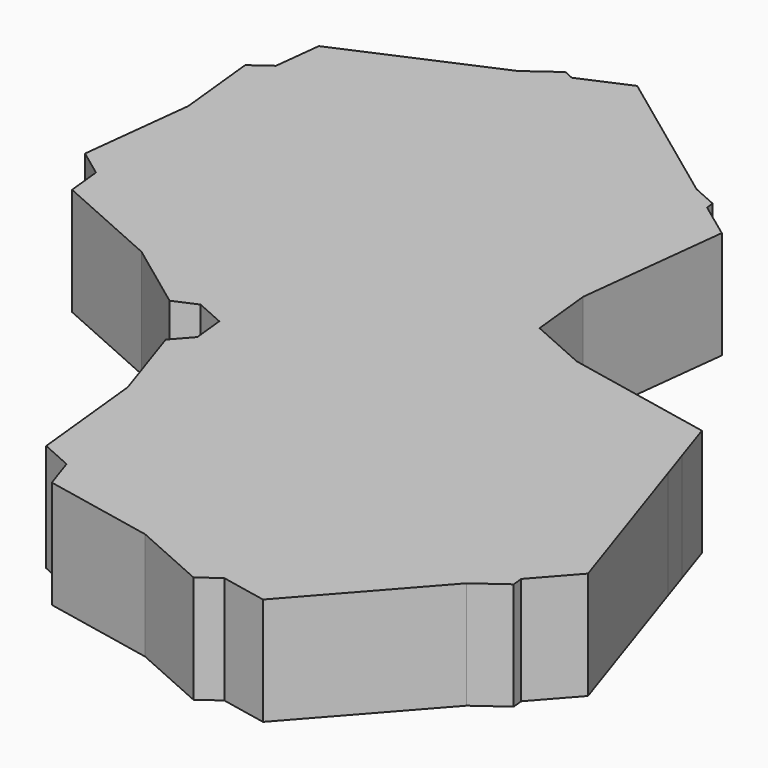
from build123d import *

# Parameters (mm, degrees)
F1_DEPTH = 16.51


with BuildPart() as f1:
    # F0 (on Top) → F1 (new body, symmetric)
    with BuildSketch(Plane.XY):
        Polygon((-43.2022629814, 50.7501908872), (-69.0760747511, 21.5364682934), (-65.8574610849, -9.12962939), (-52.4062764106, -49.4021031564), (-15.0137703335, -66.056856252), (13.9833751011, -71.9724435679), (60.931880822, -37.8728209036), (69.7461497786, -27.9207655027), (62.9593903875, 36.7416786496), (59.8360567226, 46.0928529982), (9.6689373355, 68.4374635784), (-12.5965162954, 72.9797463827), (-13.6626050694, 63.6028206506), align=None)
        Polygon((-78.9861560003, 35.1807103661), (-43.2022629814, 50.7501908872), (-21.8433921577, 74.8661631573), (-12.5965162954, 72.9797463827), (-10.0294925226, 95.5583457063), (-15.7620518159, 150.1766508204), (-23.6886737819, 156.0391024482), (-83.0813727841, 182.4928184823), (-95.2716468802, 177.1888613364), (-142.220152601, 143.089238672), (-145.5632851016, 113.6842717152), (-141.2904713377, 72.9740349935), (-107.1530824622, 47.7263580079), align=None)
        Polygon((-83.0813727841, 182.4928184823), (-23.6886737819, 156.0391024482), (-68.2071715749, 188.9645454649), align=None)
        Polygon((-15.0137703335, -66.056856252), (-52.4062764106, -49.4021031564), (-49.1709460267, -59.0885925748), align=None)
        Polygon((-149.5013266736, 79.0467028255), (-141.2904713377, 72.9740349935), (-145.5632851016, 113.6842717152), align=None)
        Polygon((80.5010523295, -15.7775705825), (62.9593903875, 36.7416786496), (69.7461497786, -27.9207655027), align=None)
        Polygon((60.931880822, -37.8728209036), (13.9833751011, -71.9724435679), (28.1678682545, -74.8661631573), align=None)
        Polygon((-140.1847239179, 62.4387667364), (-107.1530824622, 47.7263580079), (-141.2904713377, 72.9740349935), align=None)
        Polygon((-52.4062764106, -49.4021031564), (-65.8574610849, -9.12962939), (-62.0829600668, -45.0920743836), align=None)
        Polygon((-15.7620518159, 150.1766508204), (-10.0294925226, 95.5583457063), (-4.7460755383, 142.0293431352), align=None)
        Polygon((-70.0923619589, 31.2193833682), (-69.0760747511, 21.5364682934), (-43.2022629814, 50.7501908872), align=None)
        Polygon((-12.5965162954, 72.9797463827), (-43.2022629814, 50.7501908872), (-13.6626050694, 63.6028206506), align=None)
        Polygon((-140.5847971426, 157.4732253101), (-142.220152601, 143.089238672), (-95.2716468802, 177.1888613364), align=None)
        Polygon((-69.0760747511, 21.5364682934), (-74.1765762328, 15.7775705825), (-65.8574610849, -9.12962939), align=None)
        Polygon((-86.040230637, 32.1115004958), (-78.9861560003, 35.1807103661), (-107.1530824622, 47.7263580079), align=None)
        Polygon((-21.8433921577, 74.8661631573), (-43.2022629814, 50.7501908872), (-12.5965162954, 72.9797463827), align=None)
        Polygon((-70.0923619589, 31.2193833682), (-43.2022629814, 50.7501908872), (-78.9861560003, 35.1807103661), align=None)
        Polygon((-10.0294925226, 95.5583457063), (-12.5965162954, 72.9797463827), (-8.0094018921, 76.3114577518), align=None)
        Polygon((55.4954221234, 59.0885925748), (9.6689373355, 68.4374635784), (59.8360567226, 46.0928529982), align=None)
        Polygon((-8.0094018921, 76.3114577518), (-12.5965162954, 72.9797463827), (9.6689373355, 68.4374635784), align=None)
        Polygon((69.7461497786, -27.9207655027), (60.931880822, -37.8728209036), (70.0923619589, -31.2193833682), align=None)
        Polygon((13.9833751011, -71.9724435679), (-15.0137703335, -66.056856252), (8.0094018921, -76.3114577518), align=None)
        Polygon((-148.19412581, 138.7502244882), (-145.5632851016, 113.6842717152), (-142.220152601, 143.089238672), align=None)
        Polygon((-95.2716468802, 177.1888613364), (-83.0813727841, 182.4928184823), (-86.1111657432, 183.8422988718), align=None)
        Polygon((-23.6886737819, 156.0391024482), (-15.7620518159, 150.1766508204), (-16.0188037843, 152.6229155036), align=None)
    extrude(amount=F1_DEPTH, both=True)


solid = f1.part
